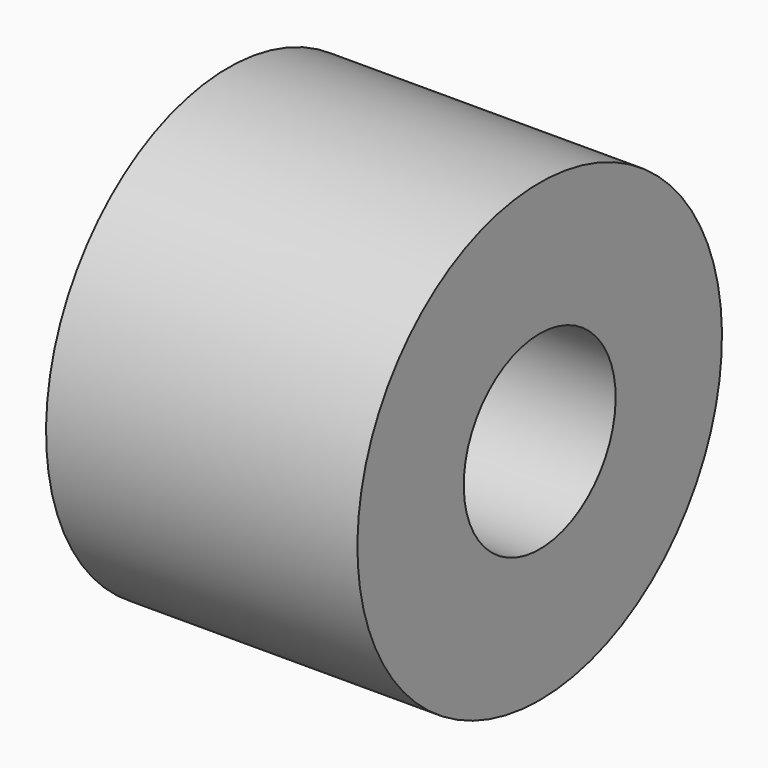
from build123d import *

# Parameters (mm, degrees)
CYLINDER064_R     = 1.25
CYLINDER064_DEPTH = 5
CYLINDER045_R     = 3
CYLINDER045_DEPTH = 4.1


with BuildPart() as b_w011:
    # Cylinder064 → Cylinder064 (new body)
    with BuildSketch(Plane(origin=(5, 26, 26), x_dir=(0, 0, 1), z_dir=(-1, 0, 0))):
        Circle(CYLINDER064_R)
    extrude(amount=CYLINDER064_DEPTH)


with BuildPart() as cut028:
    # Cylinder045 → Cylinder045 (new body)
    with BuildSketch(Plane(origin=(-1, 26, 26), x_dir=(0, 0, -1), z_dir=(1, 0, 0))):
        Circle(CYLINDER045_R)
    extrude(amount=CYLINDER045_DEPTH)

    # Cut028: cut B_W011
    add(b_w011.part, mode=Mode.SUBTRACT)


solid = cut028.part
